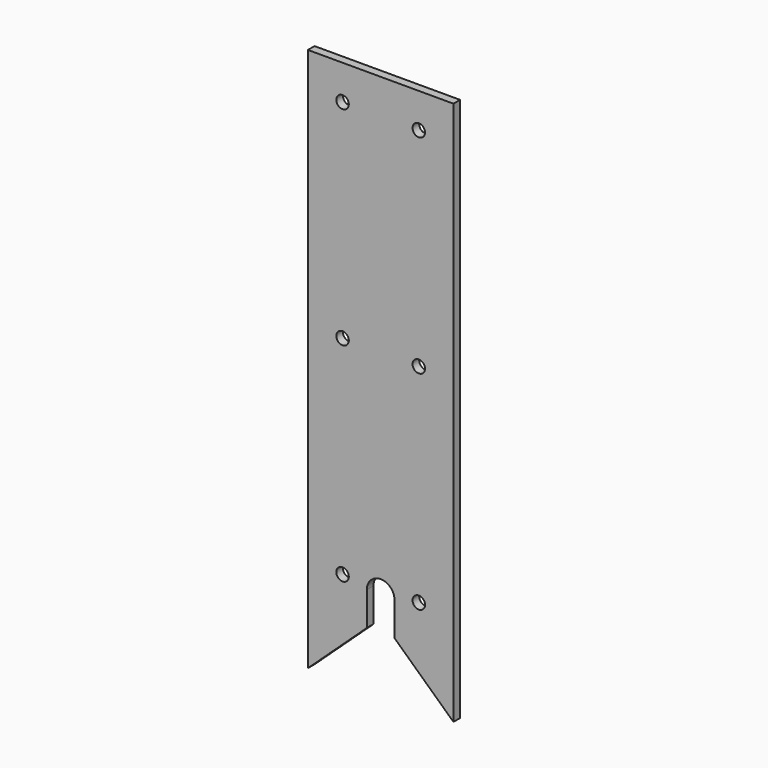
from build123d import *

# Parameters (mm, degrees)
F0_R     = 9
F1_DEPTH = 12


with BuildPart() as f1:
    # F0 (on Front) → F1 (new body)
    with BuildSketch(Plane.XZ):
        with BuildLine():
            Line((530, 0), (320, 0))
            Line((320, 0), (320, -785.367647))
            Line((320, -785.367647), (405, -706.617647))
            Line((405, -706.617647), (405, -658.088235))
            ThreePointArc((405, -658.088235), (425, -638.088235), (445, -658.088235))
            Line((445, -658.088235), (445, -706.617647))
            Line((445, -706.617647), (530, -785.367647))
            Line((530, -785.367647), (530, 0))
        make_face()
        with Locations((370, -650)):
            Circle(F0_R, mode=Mode.SUBTRACT)
        with Locations((480, -650)):
            Circle(F0_R, mode=Mode.SUBTRACT)
        with Locations((370, -350)):
            Circle(F0_R, mode=Mode.SUBTRACT)
        with Locations((370, -50)):
            Circle(F0_R, mode=Mode.SUBTRACT)
        with Locations((480, -350)):
            Circle(F0_R, mode=Mode.SUBTRACT)
        with Locations((480, -50)):
            Circle(F0_R, mode=Mode.SUBTRACT)
    extrude(amount=F1_DEPTH)


solid = f1.part
